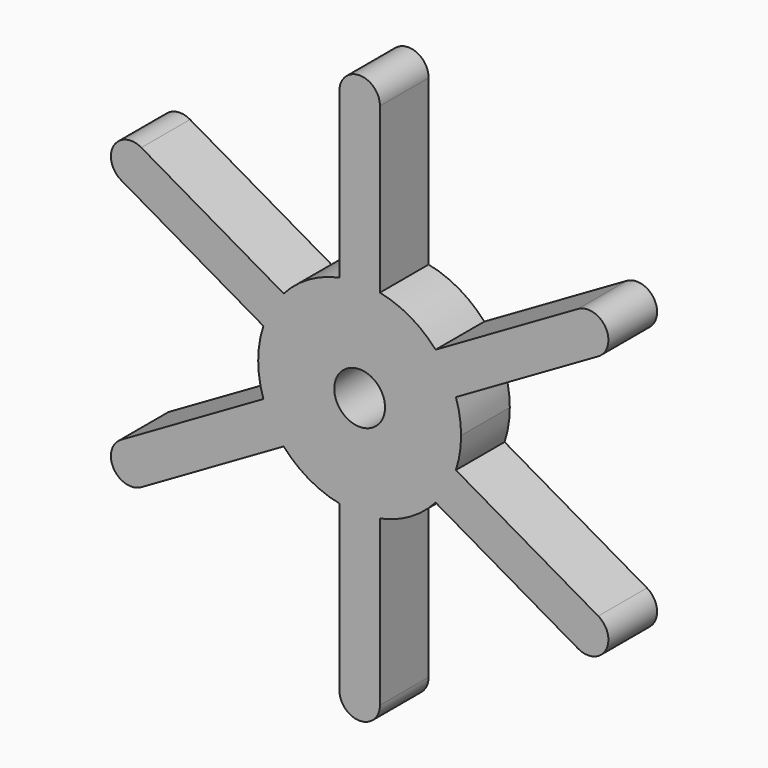
from build123d import *

# Parameters (mm, degrees)
F0_R     = 3.175
F1_DEPTH = 7.62


with BuildPart() as f1:
    # F0 (on Front) → F1 (new body)
    with BuildSketch(Plane.XZ):
        with BuildLine():
            ThreePointArc((12.046307, -4.021999), (12.535512, -2.037388), (12.7, 0))
            ThreePointArc((12.7, 0), (12.535512, 2.037388), (12.046307, 4.021999))
            ThreePointArc((12.046307, 4.021999), (10.998523, 6.35), (9.506307, 8.421408))
            ThreePointArc((9.506307, 8.421408), (6.35, 10.998523), (2.54, 12.443408))
            ThreePointArc((2.54, 12.443408), (0, 12.7), (-2.54, 12.443408))
            ThreePointArc((-2.54, 12.443408), (-6.35, 10.998523), (-9.506307, 8.421408))
            ThreePointArc((-9.506307, 8.421408), (-10.998523, 6.35), (-12.046307, 4.021999))
            ThreePointArc((-12.046307, 4.021999), (-12.7, 0), (-12.046307, -4.021999))
            ThreePointArc((-12.046307, -4.021999), (-10.998523, -6.35), (-9.506307, -8.421408))
            ThreePointArc((-9.506307, -8.421408), (-6.35, -10.998523), (-2.54, -12.443408))
            ThreePointArc((-2.54, -12.443408), (0, -12.7), (2.54, -12.443408))
            ThreePointArc((2.54, -12.443408), (6.35, -10.998523), (9.506307, -8.421408))
            ThreePointArc((9.506307, -8.421408), (10.998523, -6.35), (12.046307, -4.021999))
        make_face()
        Circle(F0_R, mode=Mode.SUBTRACT)
        with BuildLine():
            ThreePointArc((9.506307, 8.421408), (10.998523, 6.35), (12.046307, 4.021999))
            Line((12.046307, 4.021999), (29.866159, 14.310295))
            ThreePointArc((29.866159, 14.310295), (30.795863, 17.78), (27.326159, 18.709705))
            Line((27.326159, 18.709705), (9.506307, 8.421408))
        make_face()
        with BuildLine():
            Line((29.866159, -14.310295), (12.046307, -4.021999))
            ThreePointArc((12.046307, -4.021999), (10.998523, -6.35), (9.506307, -8.421408))
            Line((9.506307, -8.421408), (27.326159, -18.709705))
            ThreePointArc((27.326159, -18.709705), (30.795863, -17.78), (29.866159, -14.310295))
        make_face()
        with BuildLine():
            ThreePointArc((-2.54, 12.443408), (0, 12.7), (2.54, 12.443408))
            Line((2.54, 12.443408), (2.54, 33.02))
            Line((2.54, 33.02), (-2.54, 33.02))
            Line((-2.54, 33.02), (-2.54, 12.443408))
        make_face()
        with BuildLine():
            Line((2.54, -33.02), (2.54, -12.443408))
            ThreePointArc((2.54, -12.443408), (0, -12.7), (-2.54, -12.443408))
            Line((-2.54, -12.443408), (-2.54, -33.02))
            ThreePointArc((-2.54, -33.02), (0, -35.56), (2.54, -33.02))
        make_face()
        with BuildLine():
            Line((-2.54, 33.02), (2.54, 33.02))
            ThreePointArc((2.54, 33.02), (0, 35.56), (-2.54, 33.02))
        make_face()
        with BuildLine():
            ThreePointArc((-12.046307, 4.021999), (-10.998523, 6.35), (-9.506307, 8.421408))
            Line((-9.506307, 8.421408), (-27.326159, 18.709705))
            ThreePointArc((-27.326159, 18.709705), (-30.795863, 17.78), (-29.866159, 14.310295))
            Line((-29.866159, 14.310295), (-12.046307, 4.021999))
        make_face()
        with BuildLine():
            Line((-27.326159, -18.709705), (-9.506307, -8.421408))
            ThreePointArc((-9.506307, -8.421408), (-10.998523, -6.35), (-12.046307, -4.021999))
            Line((-12.046307, -4.021999), (-29.866159, -14.310295))
            ThreePointArc((-29.866159, -14.310295), (-30.795863, -17.78), (-27.326159, -18.709705))
        make_face()
    extrude(amount=F1_DEPTH)


solid = f1.part
